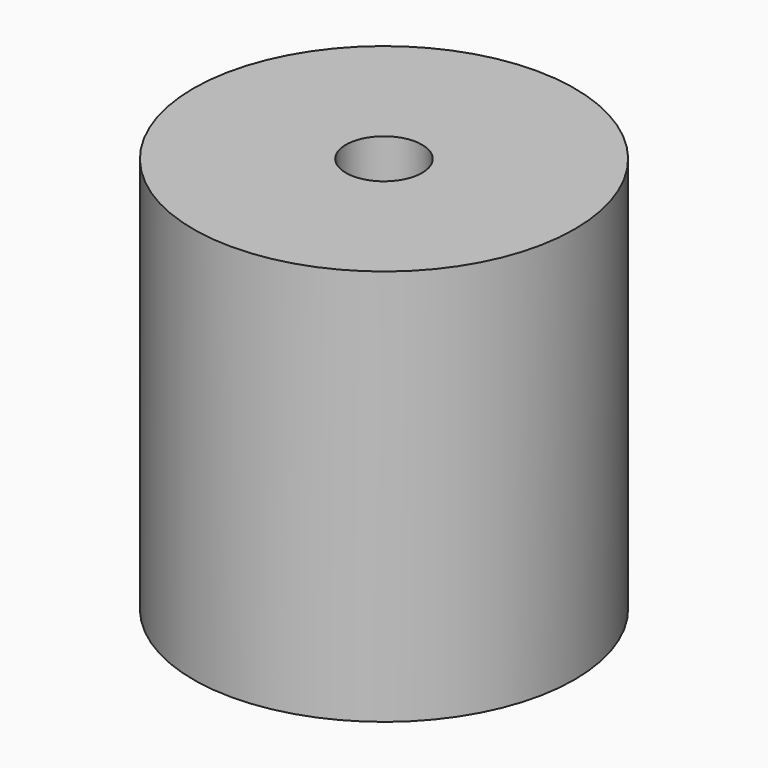
from build123d import *

# Parameters (mm, degrees)
SKETCH042_R        = 12.5
PAD013_DEPTH       = 13
SKETCH043_R        = 2.5
POCKET026_DEPTH    = 8
SKETCH044_R        = 2.5
POCKET025_DEPTH    = 8
BODY009_ROLL_ANGLE = 90


with BuildPart() as part:
    # Sketch042 → Pad013 (new body, symmetric)
    with BuildSketch(Plane.XZ):
        Circle(SKETCH042_R)
    extrude(amount=PAD013_DEPTH, both=True)

    # Sketch043 (on Face3 of Pad013) → Pocket026 (cut)
    with BuildSketch(Plane.XZ.offset(13)):
        Circle(SKETCH043_R)
    extrude(amount=-POCKET026_DEPTH, mode=Mode.SUBTRACT)

    # Sketch044 (on Face2 of Pocket026) → Pocket025 (cut)
    with BuildSketch(Plane(origin=(0, 13, 0), x_dir=(1, 0, 0), z_dir=(0, 1, 0))):
        Circle(SKETCH044_R)
    extrude(amount=-POCKET025_DEPTH, mode=Mode.SUBTRACT)


with BuildPart() as part_1:
    # Body009 roll: moved
    add(part.part.rotate(Axis((0, 0, 0), (1, 0, 0)), BODY009_ROLL_ANGLE))


with BuildPart() as part_2:
    # Body009 placement: moved
    add(part_1.part.moved(Location((-28.5, 150, 48))))


solid = part_2.part
